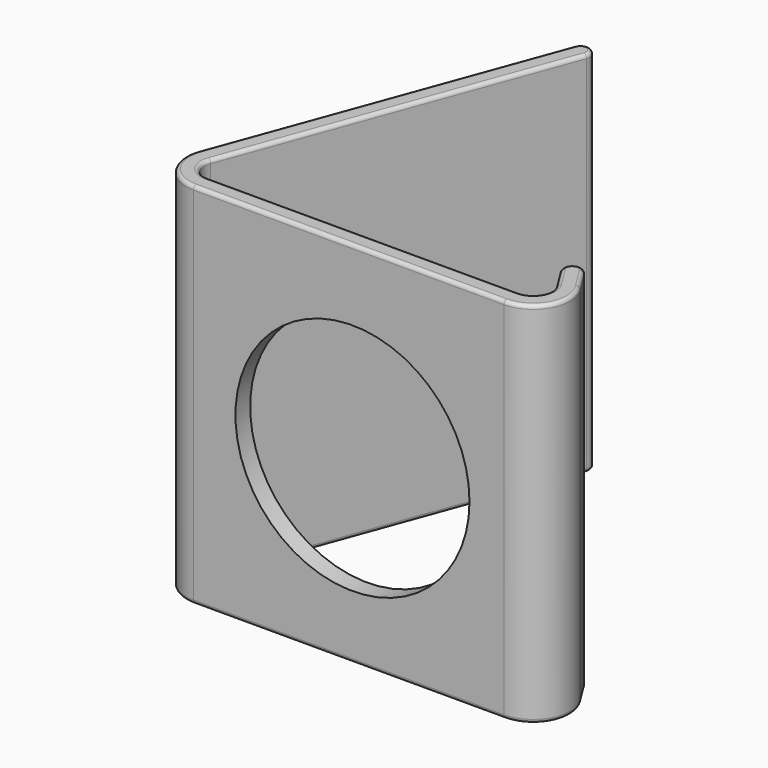
from build123d import *

# Parameters (mm, degrees)
PAD_DEPTH    = 20
FILLET_R     = 0.2
SKETCH001_R  = 6.35529
POCKET_DEPTH = 5


with BuildPart() as part:
    # Sketch → Pad (new body)
    with BuildSketch(Plane.XY):
        with BuildLine():
            Line((13.174844, 20.172385), (6.753583, 2.689539))
            ThreePointArc((6.753583, 2.689539), (6.990976, 0.855246), (8.630958, 0))
            Line((8.630958, 0), (25.485807, 0))
            ThreePointArc((25.485807, 0), (27.23513, 1.030532), (27.18172, 3.060131))
            Line((27.18172, 3.060131), (26.428525, 4.265033))
            ThreePointArc((26.428525, 4.265033), (25.739514, 4.423978), (25.580568, 3.734967))
            Line((25.580568, 3.734967), (26.333764, 2.530066))
            ThreePointArc((25.485807, 1), (26.360469, 1.515266), (26.333764, 2.530066))
            Line((25.485807, 1), (8.630958, 1))
            ThreePointArc((7.69227, 2.34477), (7.810967, 1.427623), (8.630958, 1))
            Line((7.69227, 2.34477), (14.113531, 19.827615))
            ThreePointArc((14.113531, 19.827615), (13.816572, 20.469344), (13.174844, 20.172385))
        make_face()
    extrude(amount=PAD_DEPTH)

    # Fillet
    fillet_edges = [part.edges().sort_by_distance(p)[0] for p in [
        (10.902901, 11.086192, 20),
        (13.816572, 20.469344, 20),
        (9.964213, 11.430962, 20),
        (6.990976, 0.855246, 20),
        (17.058382, 0, 20),
        (27.23513, 1.030532, 20),
        (26.805123, 3.662582, 20),
        (25.739514, 4.423978, 20),
        (25.957166, 3.132516, 20),
        (26.360469, 1.515266, 20),
        (17.058382, 1, 20),
        (7.810967, 1.427623, 20),
        (10.902901, 11.086192, 0),
        (13.816572, 20.469344, 0),
        (9.964213, 11.430962, 0),
        (6.990976, 0.855246, 0),
        (17.058382, 0, 0),
        (27.23513, 1.030532, 0),
        (26.805123, 3.662582, 0),
        (25.739514, 4.423978, 0),
        (25.957166, 3.132516, 0),
        (26.360469, 1.515266, 0),
        (17.058382, 1, 0),
        (7.810967, 1.427623, 0),
    ]]
    fillet(fillet_edges, radius=FILLET_R)

    # Sketch001 (on Face35 of Fillet) → Pocket (cut)
    with BuildSketch(Plane.XZ):
        with Locations((17.266081, 9.78687)):
            Circle(SKETCH001_R)
    extrude(amount=-POCKET_DEPTH, mode=Mode.SUBTRACT)


solid = part.part
